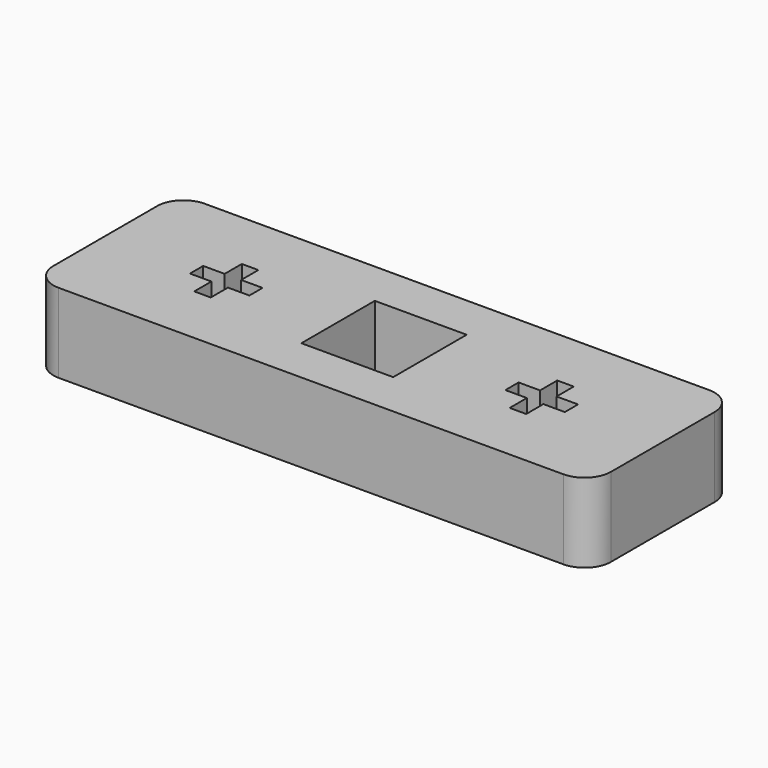
from build123d import *

# Parameters (mm, degrees)
SKETCH_W   = 42.2
SKETCH_H   = 13.8
SKETCH_W_2 = 6.95
SKETCH_H_2 = 6.95
PAD_DEPTH  = 6
FILLET_R   = 2


with BuildPart() as part:
    # Sketch → Pad (new body)
    with BuildSketch(Plane.XY):
        Rectangle(SKETCH_W, SKETCH_H)
        Rectangle(SKETCH_W_2, SKETCH_H_2, mode=Mode.SUBTRACT)
        Polygon((9.687999, 0.625), (9.687999, -0.625), (11.312999, -0.625), (11.312999, -2.25), (12.562999, -2.25), (12.562999, -0.625), (14.187999, -0.625), (14.187999, 0.625), (12.562999, 0.625), (12.562999, 2.25), (11.312999, 2.25), (11.312999, 0.625), align=None, mode=Mode.SUBTRACT)
        Polygon((-14.187999, 0.625), (-14.188001, -0.625), (-12.563001, -0.625), (-12.563001, -2.25), (-11.313001, -2.25), (-11.313001, -0.625), (-9.687999, -0.625), (-9.687999, 0.625), (-11.312999, 0.625), (-11.312999, 2.25), (-12.562999, 2.25), (-12.562999, 0.625), align=None, mode=Mode.SUBTRACT)
    extrude(amount=PAD_DEPTH)

    # Fillet
    fillet_edges = [part.edges().sort_by_distance(p)[0] for p in [
        (21.1, -6.9, 3),
        (21.1, 6.9, 3),
        (-21.1, -6.9, 3),
        (-21.1, 6.9, 3),
    ]]
    fillet(fillet_edges, radius=FILLET_R)


solid = part.part
